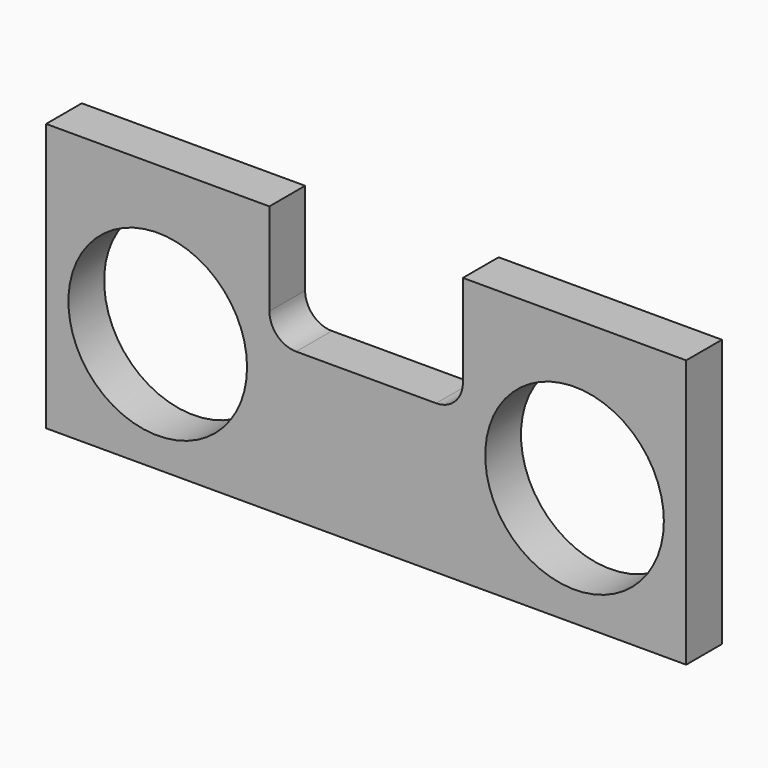
from build123d import *

# Parameters (mm, degrees)
F0_W     = 273.05
F0_H     = 114.3
F1_DEPTH = 19.05
F2_R     = 38.1
F3_DEPTH = 25.4
F5_DEPTH = 25.4


with BuildPart() as f1:
    # F0 (on Front) → F1 (new body)
    with BuildSketch(Plane.XZ):
        with Locations((136.525, 57.15)):
            Rectangle(F0_W, F0_H)
    extrude(amount=F1_DEPTH)

    # F2 (on face) → F3 (cut)
    with BuildSketch(Plane.XZ.offset(19.05)):
        with Locations((47.625, 50.8)):
            Circle(F2_R)
        with Locations((225.425, 50.8)):
            Circle(F2_R)
    extrude(amount=-F3_DEPTH, mode=Mode.SUBTRACT)

    # F4 (on face) → F5 (cut)
    with BuildSketch(Plane.XZ.offset(19.05)):
        with BuildLine():
            Line((177.8, 114.3), (95.25, 114.3))
            Line((95.25, 114.3), (95.25, 74.93))
            ThreePointArc((95.25, 74.93), (98.597769, 66.847769), (106.68, 63.5))
            Line((106.68, 63.5), (166.37, 63.5))
            ThreePointArc((166.37, 63.5), (174.452231, 66.847769), (177.8, 74.93))
            Line((177.8, 74.93), (177.8, 114.3))
        make_face()
    extrude(amount=-F5_DEPTH, mode=Mode.SUBTRACT)


solid = f1.part
